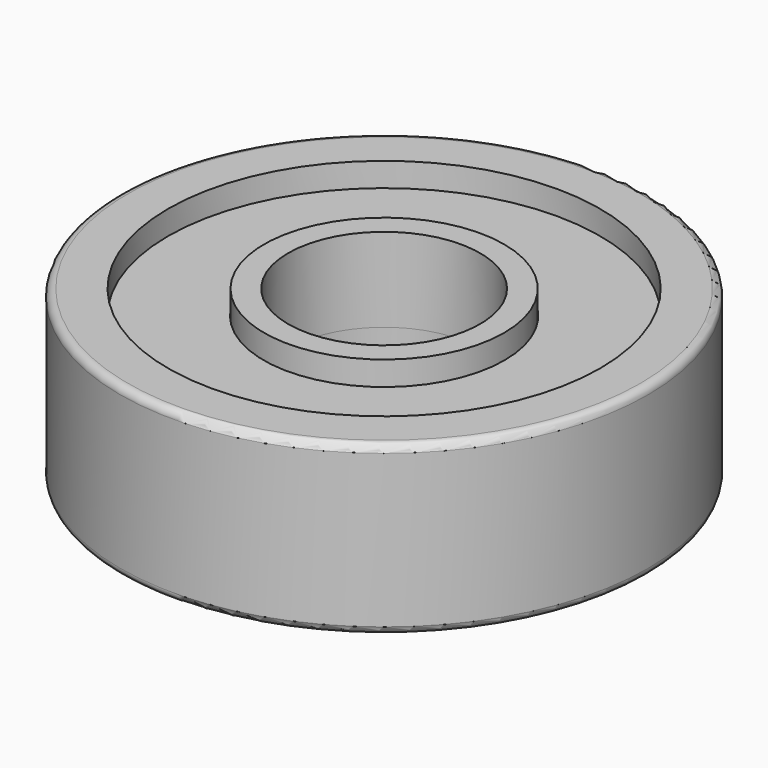
from build123d import *

# Parameters (mm, degrees)
F0_R     = 11
F1_DEPTH = 3.5
F2_R     = 9
F2_R_2   = 5
F3_DEPTH = 3.5
F5_D     = 8
F6_R     = 9.04763
F6_R_2   = 5.015997
F7_DEPTH = 2.5
F8_R     = 0.3175


with BuildPart() as f1:
    # F0 (on Top) → F1 (new body)
    with BuildSketch(Plane.XY):
        Circle(F0_R)
    extrude(amount=F1_DEPTH)

    # F2 (on face) → F3 (cut, through all)
    with BuildSketch(Plane.XY.offset(3.5)):
        Circle(F2_R)
        Circle(F2_R_2, mode=Mode.SUBTRACT)
    extrude(amount=-F3_DEPTH, mode=Mode.SUBTRACT)

    # F5 (through all)
    with Locations(Plane.XY.offset(3.5)):
        with Locations((0, 0)):
            Hole(F5_D / 2)

    # F6 (on Top) → F7 (join)
    with BuildSketch(Plane.XY):
        Circle(F6_R)
        Circle(F6_R_2, mode=Mode.SUBTRACT)
    extrude(amount=F7_DEPTH)

    # F8
    f8_edges = [f1.edges().sort_by_distance(p)[0] for p in [
        (-11, 0, 3.5),
    ]]
    fillet(f8_edges, radius=F8_R)

    # F9: F1 across plane


with BuildPart() as f1_1:
    add(f1.part)
    add(f1.part.mirror(Plane.XY))


solid = f1_1.part
